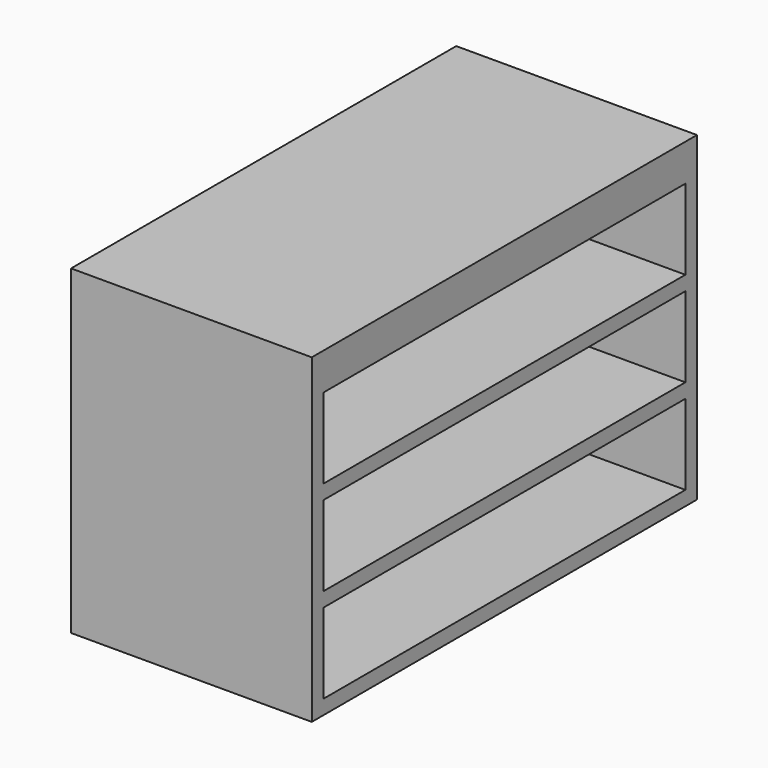
from build123d import *

# Parameters (mm, degrees)
F1_DEPTH = 300
F2_W     = 564
F2_H     = 100
F3_DEPTH = 282


with BuildPart() as f1:
    # F0 (on Right) → F1 (new body)
    with BuildSketch(Plane.YZ):
        Polygon((-300, 3.9004381746), (0, 3.9004381746), (300, 3.9004381746), (300, 403.9004381746), (-300, 403.9004381746), align=None)
    extrude(amount=-F1_DEPTH)

    # F2 (on face) → F3 (cut)
    with BuildSketch(Plane.YZ):
        with Locations((0, 307.9004381746)):
            Rectangle(F2_W, F2_H)
        with Locations((0, 189.9004381746)):
            Rectangle(F2_W, F2_H)
        with Locations((0, 71.9004381746)):
            Rectangle(F2_W, F2_H)
    extrude(amount=-F3_DEPTH, mode=Mode.SUBTRACT)


solid = f1.part
